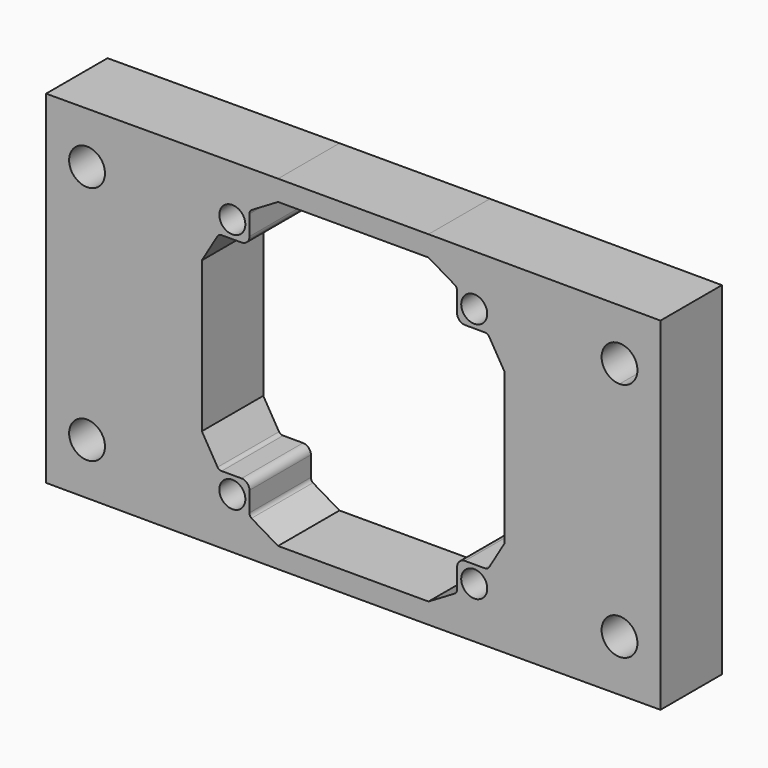
from build123d import *

# Parameters (mm, degrees)
F0_R     = 2.54
F1_DEPTH = 15
F2_R     = 3.5
F3_DEPTH = 25


with BuildPart() as f1:
    # F0 (on Front) → F1 (new body)
    with BuildSketch(Plane.XZ):
        Polygon((-60.299848, 32.870961), (-60.299848, -34.057695), (-14.992381, -34.168367), (14.392686, -34.168367), (59.700152, -34.057695), (59.700152, 32.870961), (14.392686, 32.981633), (-14.992381, 32.981633), align=None)
        with Locations((-23.921848, -24.215367)):
            Circle(F0_R, mode=Mode.SUBTRACT)
        with Locations((23.322152, -24.215367)):
            Circle(F0_R, mode=Mode.SUBTRACT)
        with BuildLine():
            Line((-20.578448, 21.225233), (-20.578448, 25.111433))
            ThreePointArc((-20.578448, 25.111433), (-20.472875, 25.558646), (-20.178448, 25.911433))
            Line((-20.178448, 25.911433), (-14.992381, 28.981633))
            Line((-14.992381, 28.981633), (14.392686, 28.981633))
            Line((14.392686, 28.981633), (19.578752, 25.911433))
            ThreePointArc((19.578752, 25.911433), (19.87318, 25.558646), (19.978752, 25.111433))
            Line((19.978752, 25.111433), (19.978752, 21.225233))
            ThreePointArc((19.978752, 21.225233), (20.429808, 20.136288), (21.518752, 19.685233))
            Line((21.518752, 19.685233), (25.404952, 19.685233))
            ThreePointArc((25.404952, 19.685233), (25.852166, 19.57966), (26.204952, 19.285233))
            Line((26.204952, 19.285233), (29.275152, 14.099166))
            Line((29.275152, 14.099166), (29.275152, -15.285901))
            Line((29.275152, -15.285901), (26.204952, -20.471967))
            ThreePointArc((26.204952, -20.471967), (25.852166, -20.766395), (25.404952, -20.871967))
            Line((25.404952, -20.871967), (21.518752, -20.871967))
            ThreePointArc((21.518752, -20.871967), (20.429808, -21.323023), (19.978752, -22.411967))
            Line((19.978752, -22.411967), (19.978752, -26.298167))
            ThreePointArc((19.978752, -26.298167), (19.87318, -26.745381), (19.578752, -27.098167))
            Line((19.578752, -27.098167), (14.392686, -30.168367))
            Line((14.392686, -30.168367), (-14.992381, -30.168367))
            Line((-14.992381, -30.168367), (-20.178448, -27.098167))
            ThreePointArc((-20.178448, -27.098167), (-20.472875, -26.745381), (-20.578448, -26.298167))
            Line((-20.578448, -26.298167), (-20.578448, -22.411967))
            ThreePointArc((-20.578448, -22.411967), (-21.029503, -21.323023), (-22.118448, -20.871967))
            Line((-22.118448, -20.871967), (-26.004648, -20.871967))
            ThreePointArc((-26.004648, -20.871967), (-26.451861, -20.766395), (-26.804648, -20.471967))
            Line((-26.804648, -20.471967), (-29.874848, -15.285901))
            Line((-29.874848, -15.285901), (-29.874848, 14.099166))
            Line((-29.874848, 14.099166), (-26.804648, 19.285233))
            ThreePointArc((-26.804648, 19.285233), (-26.451861, 19.57966), (-26.004648, 19.685233))
            Line((-26.004648, 19.685233), (-22.118448, 19.685233))
            ThreePointArc((-22.118448, 19.685233), (-21.029503, 20.136288), (-20.578448, 21.225233))
        make_face(mode=Mode.SUBTRACT)
        with Locations((-23.921848, 23.028633)):
            Circle(F0_R, mode=Mode.SUBTRACT)
        with Locations((23.322152, 23.028633)):
            Circle(F0_R, mode=Mode.SUBTRACT)
    extrude(amount=F1_DEPTH)

    # F2 (on face) → F3 (cut)
    with BuildSketch(Plane.XZ.offset(15)):
        with Locations((-52.299848, 22.890472)):
            Circle(F2_R)
        with Locations((-52.299848, -24.057695)):
            Circle(F2_R)
        with BuildLine():
            ThreePointArc((51.700152, 19.370961), (54.175026, 20.396087), (55.200152, 22.870961))
            ThreePointArc((55.200152, 22.870961), (54.175026, 25.345834), (51.700152, 26.370961))
            ThreePointArc((51.700152, 26.370961), (48.200152, 22.870961), (51.700152, 19.370961))
        make_face()
        with Locations((51.700152, -24.057695)):
            Circle(F2_R)
    extrude(amount=-F3_DEPTH, mode=Mode.SUBTRACT)


solid = f1.part
